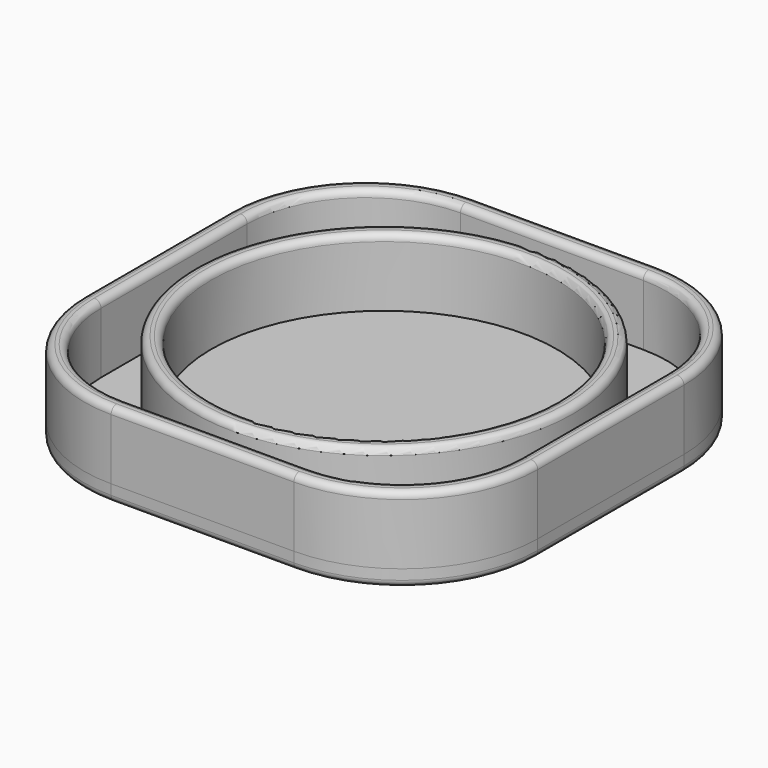
from build123d import *

# Parameters (mm, degrees)
F0_R     = 28
F0_R_2   = 25.5
F1_DEPTH = 2.5
F2_DEPTH = 10
F3_R     = 1
F4_R     = 1
F4_2_R   = 1


with BuildPart() as f1:
    # F0 (on Top) → F1 (new body)
    with BuildSketch(Plane.XY):
        with BuildLine():
            Line((-13.5, -33.5), (13.5, -33.5))
            ThreePointArc((13.5, -33.5), (27.6421356237, -27.6421356237), (33.5, -13.5))
            Line((33.5, -13.5), (33.5, 13.5))
            ThreePointArc((33.5, 13.5), (27.6421356237, 27.6421356237), (13.5, 33.5))
            Line((13.5, 33.5), (-13.5, 33.5))
            ThreePointArc((-13.5, 33.5), (-27.6421356237, 27.6421356237), (-33.5, 13.5))
            Line((-33.5, 13.5), (-33.5, -13.5))
            ThreePointArc((-33.5, -13.5), (-27.6421356237, -27.6421356237), (-13.5, -33.5))
        make_face()
        with BuildLine():
            ThreePointArc((31, -13.5), (25.8743686708, -25.8743686708), (13.5, -31))
            Line((13.5, -31), (-13.5, -31))
            ThreePointArc((-13.5, -31), (-25.8743686708, -25.8743686708), (-31, -13.5))
            Line((-31, -13.5), (-31, 13.5))
            ThreePointArc((-31, 13.5), (-25.8743686708, 25.8743686708), (-13.5, 31))
            Line((-13.5, 31), (13.5, 31))
            ThreePointArc((13.5, 31), (25.8743686708, 25.8743686708), (31, 13.5))
            Line((31, 13.5), (31, -13.5))
        make_face(mode=Mode.SUBTRACT)
        with BuildLine():
            Line((-13.5, -31), (13.5, -31))
            ThreePointArc((13.5, -31), (25.8743686708, -25.8743686708), (31, -13.5))
            Line((31, -13.5), (31, 13.5))
            ThreePointArc((31, 13.5), (25.8743686708, 25.8743686708), (13.5, 31))
            Line((13.5, 31), (-13.5, 31))
            ThreePointArc((-13.5, 31), (-25.8743686708, 25.8743686708), (-31, 13.5))
            Line((-31, 13.5), (-31, -13.5))
            ThreePointArc((-31, -13.5), (-25.8743686708, -25.8743686708), (-13.5, -31))
        make_face()
        Circle(F0_R, mode=Mode.SUBTRACT)
        Circle(F0_R)
        Circle(F0_R_2, mode=Mode.SUBTRACT)
        Circle(F0_R_2)
    extrude(amount=-F1_DEPTH)

    # F4#2
    f4_2_edges = [f1.edges().sort_by_distance(p)[0] for p in [
        (-33.5, 0, -2.5),
        (-27.642136, -27.642136, -2.5),
        (0, -33.5, -2.5),
        (27.642136, -27.642136, -2.5),
        (33.5, 0, -2.5),
        (27.642136, 27.642136, -2.5),
        (0, 33.5, -2.5),
        (-27.642136, 27.642136, -2.5),
    ]]
    fillet(f4_2_edges, radius=F4_2_R)


with BuildPart() as f2:
    # F0 (on Top) → F2 (new body)
    with BuildSketch(Plane.XY):
        Circle(F0_R)
        Circle(F0_R_2, mode=Mode.SUBTRACT)
    extrude(amount=F2_DEPTH)

    # F3
    f3_edges = [f2.edges().sort_by_distance(p)[0] for p in [
        (-25.5, 0, 10),
        (-28, 0, 10),
    ]]
    fillet(f3_edges, radius=F3_R)


with BuildPart() as f2b:
    # F0 (on Top) → F2, piece 2 (new body)
    with BuildSketch(Plane.XY):
        with BuildLine():
            Line((-13.5, -33.5), (13.5, -33.5))
            ThreePointArc((13.5, -33.5), (27.6421356237, -27.6421356237), (33.5, -13.5))
            Line((33.5, -13.5), (33.5, 13.5))
            ThreePointArc((33.5, 13.5), (27.6421356237, 27.6421356237), (13.5, 33.5))
            Line((13.5, 33.5), (-13.5, 33.5))
            ThreePointArc((-13.5, 33.5), (-27.6421356237, 27.6421356237), (-33.5, 13.5))
            Line((-33.5, 13.5), (-33.5, -13.5))
            ThreePointArc((-33.5, -13.5), (-27.6421356237, -27.6421356237), (-13.5, -33.5))
        make_face()
        with BuildLine():
            ThreePointArc((31, -13.5), (25.8743686708, -25.8743686708), (13.5, -31))
            Line((13.5, -31), (-13.5, -31))
            ThreePointArc((-13.5, -31), (-25.8743686708, -25.8743686708), (-31, -13.5))
            Line((-31, -13.5), (-31, 13.5))
            ThreePointArc((-31, 13.5), (-25.8743686708, 25.8743686708), (-13.5, 31))
            Line((-13.5, 31), (13.5, 31))
            ThreePointArc((13.5, 31), (25.8743686708, 25.8743686708), (31, 13.5))
            Line((31, 13.5), (31, -13.5))
        make_face(mode=Mode.SUBTRACT)
    extrude(amount=F2_DEPTH)

    # F4
    f4_edges = [f2b.edges().sort_by_distance(p)[0] for p in [
        (-33.5, 0, 10),
        (-27.642136, -27.642136, 10),
        (0, -33.5, 10),
        (27.642136, -27.642136, 10),
        (33.5, 0, 10),
        (27.642136, 27.642136, 10),
        (0, 33.5, 10),
        (-27.642136, 27.642136, 10),
        (25.874369, -25.874369, 10),
        (0, -31, 10),
        (-25.874369, -25.874369, 10),
        (-31, 0, 10),
        (-25.874369, 25.874369, 10),
        (0, 31, 10),
        (25.874369, 25.874369, 10),
        (31, 0, 10),
    ]]
    fillet(f4_edges, radius=F4_R)


solid = Compound([f1.part, f2.part, f2b.part])
